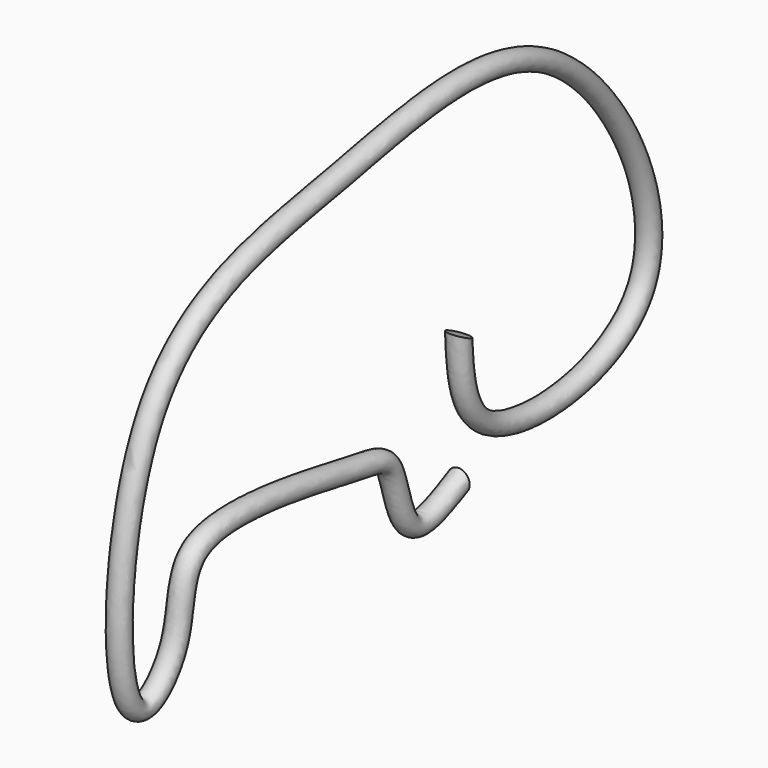
from build123d import *

# Parameters (mm, degrees)
F1_R = 6.35


with BuildPart() as f2:
    # F2: sweep along a path in F0
    with BuildLine(Plane.YZ) as f2_path:
        add(Plane.YZ * Edge.make_bspline(
            [(0, 0), (-13.6116545482, -6.7634729089), (-41.0257631329, -20.3852247743), (-46.6232360586, 33.2201253055), (-72.734393752, 35.0019609579), (-206.5896003013, 63.8387095444), (-194.456429446, 0.0454143808), (-250.7433021561, -51.5200495948), (-244.7623827222, 165.9005110327), (-85.0264126826, 184.5481348071), (76.0436764783, 227.1119670141), (183.8733679403, 17.7598685553), (4.2639852932, 1.2154823163), (1.2636197396, 52.3124759573), (0, 73.832243681)],
            knots=[0, 0, 0, 0, 0.0556274664, 0.112034683, 0.1597658424, 0.258817156, 0.3215988665, 0.3762283652, 0.4885131805, 0.6014102975, 0.71682159, 0.831835151, 0.929176489, 1, 1, 1, 1], degree=3))
    # F1 (on Front) → F2 (sweep)
    with BuildSketch(Plane.XZ):
        Circle(F1_R)
    sweep(path=f2_path.line)


solid = f2.part
